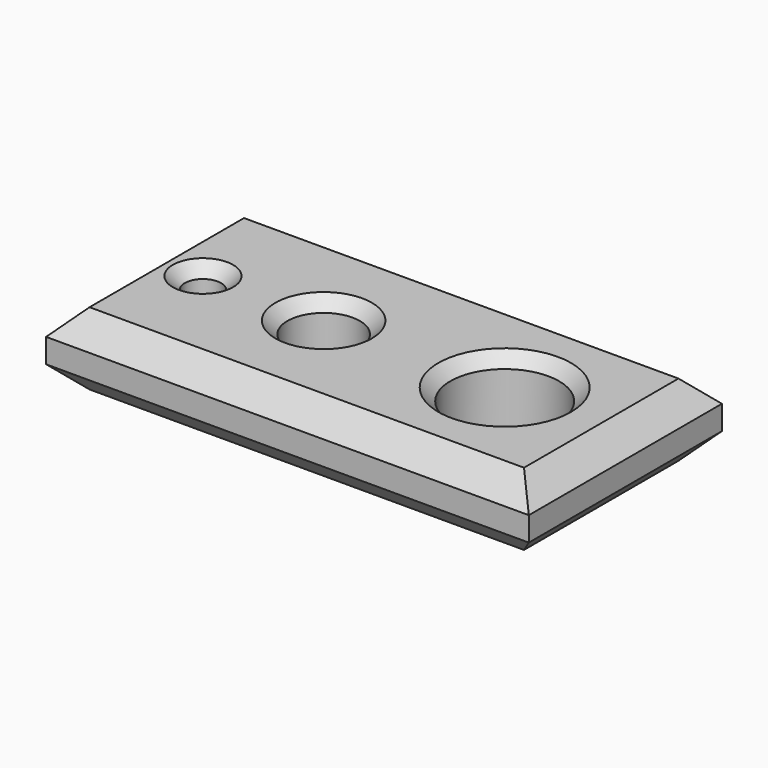
from build123d import *

# Parameters (mm, degrees)
F0_W     = 200
F0_H     = 100
F0_R     = 7.5
F0_R_2   = 15
F0_R_3   = 22.5
F1_DEPTH = 30
F2_SIZE2 = 10
F2_SIZE  = 10
F3_SIZE2 = 5
F3_SIZE  = 5


with BuildPart() as f1:
    # F0 (on Top) → F1 (new body)
    with BuildSketch(Plane.XY):
        with Locations((100, 50)):
            Rectangle(F0_W, F0_H)
        with Locations((25, 50)):
            Circle(F0_R, mode=Mode.SUBTRACT)
        with Locations((75, 50)):
            Circle(F0_R_2, mode=Mode.SUBTRACT)
        with Locations((150, 50)):
            Circle(F0_R_3, mode=Mode.SUBTRACT)
    extrude(amount=F1_DEPTH)

    # F2
    f2_edges = [f1.edges().sort_by_distance(p)[0] for p in [
        (0, 50, 30),
        (100, 100, 30),
        (100, 0, 30),
        (200, 50, 30),
        (200, 50, 0),
        (100, 100, 0),
        (0, 50, 0),
        (100, 0, 0),
    ]]
    chamfer(f2_edges, length=F2_SIZE, length2=F2_SIZE2)

    # F3
    f3_edges = [f1.edges().sort_by_distance(p)[0] for p in [
        (127.5, 50, 30),
        (60, 50, 30),
        (17.5, 50, 30),
    ]]
    chamfer(f3_edges, length=F3_SIZE, length2=F3_SIZE2)


solid = f1.part
